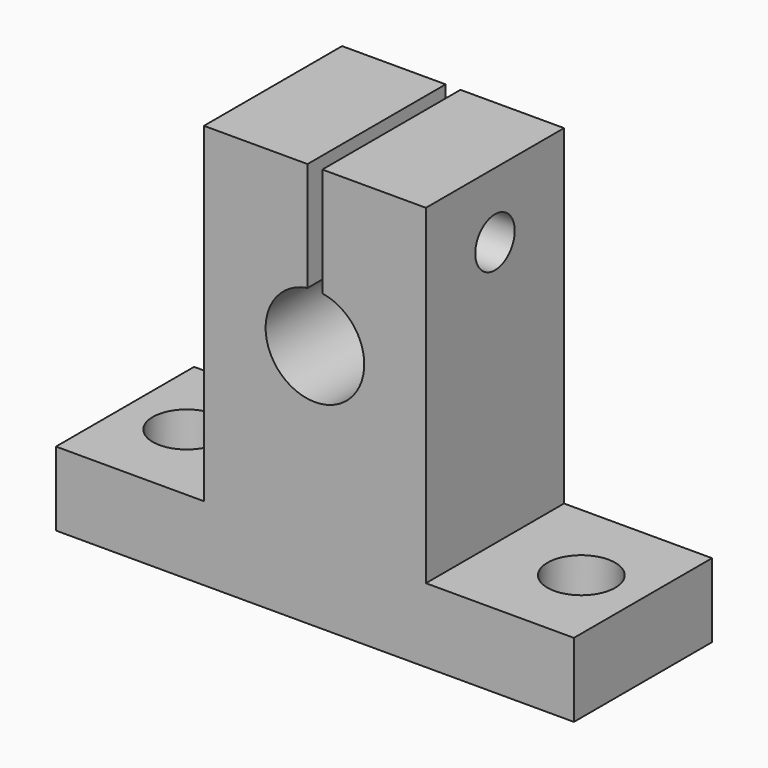
from build123d import *

# Parameters (mm, degrees)
OBJ1_R                     = 2.75
OBJ1_DEPTH                 = 8
OBJ2                     = 2.75
OBJ3                 = 8
OBJ4_PLACEMENT_ANGLE        = 90
TBOLT_SHAFT_R                    = 2
TBOLT_SHAFT_DEPTH                = 20
TBOLT_SHAFT_ROLL_ANGLE           = 90
UP_SEP_W                         = 16
UP_SEP_H                         = 1.2
UP_SEP_DEPTH                     = 13.8
SHAFT_HOLE_R                     = 4
SHAFT_HOLE_DEPTH                 = 16
SHAFT_HOLE_PITCH_ANGLE           = 90
TBOLT_HEAD_R                     = 3.85
TBOLT_HEAD_DEPTH                 = 5.4
TBOLT_HEAD_ROLL_ANGLE            = 90
SIDE_BOX_L_W                     = 14
SIDE_BOX_L_H                     = 12
SIDE_BOX_L_DEPTH                 = 26.8
SIDE_BOX_R_W                     = 14
SIDE_BOX_R_H                     = 12
SIDE_BOX_R_DEPTH                 = 26.8
TOTAL_BOX_W                      = 14
TOTAL_BOX_H                      = 42
TOTAL_BOX_DEPTH                  = 32.8
SK_SHAPE_W_HOLES_PLACEMENT_ANGLE = 90


with BuildPart() as obj1:
    # obj1 → obj1 (new body)
    with BuildSketch(Plane(origin=(7, -16, -1), x_dir=(1, 0, 0), z_dir=(0, 0, 1))):
        Circle(OBJ1_R)
    extrude(amount=OBJ1_DEPTH)


with BuildPart() as obj4:
    with BuildSketch(Plane(origin=(7, 16, -1), x_dir=(1, 0, 0), z_dir=(0, 0, 1))):
        Circle(OBJ2)
    extrude(amount=OBJ3)

    # obj4: union obj1
    add(obj1.part)


with BuildPart() as obj4_1:
    # obj4 placement: moved
    add(obj4.part.moved(Location((0, -7, 0))).rotate(Axis((0, -7, 0), (0, 0, 1)), OBJ4_PLACEMENT_ANGLE))


with BuildPart() as tbolt_shaft:
    # tbolt_shaft → tbolt_shaft (new body)
    with BuildSketch(Plane.XY):
        Circle(TBOLT_SHAFT_R)
    extrude(amount=TBOLT_SHAFT_DEPTH)


with BuildPart() as tbolt_shaft_1:
    # tbolt_shaft roll: moved
    add(tbolt_shaft.part.rotate(Axis((0, 0, 0), (1, 0, 0)), TBOLT_SHAFT_ROLL_ANGLE))


with BuildPart() as tbolt_shaft_2:
    # tbolt_shaft placement: moved
    add(tbolt_shaft_1.part.moved(Location((7, 10, 27.5))))


with BuildPart() as up_sep:
    # up_sep → up_sep (new body)
    with BuildSketch(Plane(origin=(-1, -0.6, 21), x_dir=(1, 0, 0), z_dir=(0, 0, 1))):
        with Locations((8, 0.6)):
            Rectangle(UP_SEP_W, UP_SEP_H)
    extrude(amount=UP_SEP_DEPTH)


with BuildPart() as shaft_hole:
    # shaft_hole → shaft_hole (new body)
    with BuildSketch(Plane.XY):
        Circle(SHAFT_HOLE_R)
    extrude(amount=SHAFT_HOLE_DEPTH)


with BuildPart() as shaft_hole_1:
    # shaft_hole pitch: moved
    add(shaft_hole.part.rotate(Axis((0, 0, 0), (0, 1, 0)), SHAFT_HOLE_PITCH_ANGLE))


with BuildPart() as shaft_hole_2:
    # shaft_hole placement: moved
    add(shaft_hole_1.part.moved(Location((-1, 0, 20))))


with BuildPart() as fuse_shaft_holes:
    # tbolt_head → tbolt_head (new body)
    with BuildSketch(Plane.XY):
        Circle(TBOLT_HEAD_R)
    extrude(amount=TBOLT_HEAD_DEPTH)


with BuildPart() as fuse_shaft_holes_1:
    # tbolt_head roll: moved
    add(fuse_shaft_holes.part.rotate(Axis((0, 0, 0), (1, 0, 0)), TBOLT_HEAD_ROLL_ANGLE))


with BuildPart() as fuse_shaft_holes_2:
    # tbolt_head placement: moved
    add(fuse_shaft_holes_1.part.moved(Location((7, 10, 27.5))))

    # fuse_shaft_holes: union tbolt_shaft, up_sep, shaft_hole
    add(tbolt_shaft_2.part)
    add(up_sep.part)
    add(shaft_hole_2.part)


with BuildPart() as side_box_l:
    # side_box_l → side_box_l (new body)
    with BuildSketch(Plane(origin=(0, -21, 6), x_dir=(1, 0, 0), z_dir=(0, 0, 1))):
        with Locations((7, 6)):
            Rectangle(SIDE_BOX_L_W, SIDE_BOX_L_H)
    extrude(amount=SIDE_BOX_L_DEPTH)


with BuildPart() as side_boxes:
    # side_box_r → side_box_r (new body)
    with BuildSketch(Plane(origin=(0, 9, 6), x_dir=(1, 0, 0), z_dir=(0, 0, 1))):
        with Locations((7, 6)):
            Rectangle(SIDE_BOX_R_W, SIDE_BOX_R_H)
    extrude(amount=SIDE_BOX_R_DEPTH)

    # side_boxes: union side_box_l
    add(side_box_l.part)


with BuildPart() as sky_x_y:
    # total_box → total_box (new body)
    with BuildSketch(Plane(origin=(0, -21, 0), x_dir=(1, 0, 0), z_dir=(0, 0, 1))):
        with Locations((7, 21)):
            Rectangle(TOTAL_BOX_W, TOTAL_BOX_H)
    extrude(amount=TOTAL_BOX_DEPTH)

    # sk_shape: cut side_boxes
    add(side_boxes.part, mode=Mode.SUBTRACT)

    # sk_shape_w_holes: cut fuse_shaft_holes
    add(fuse_shaft_holes_2.part, mode=Mode.SUBTRACT)


with BuildPart() as sky_x_y_1:
    # sk_shape_w_holes placement: moved
    add(sky_x_y.part.moved(Location((0, -7, 0))).rotate(Axis((0, -7, 0), (0, 0, 1)), SK_SHAPE_W_HOLES_PLACEMENT_ANGLE))

    # sky_x_y0: cut obj4
    add(obj4_1.part, mode=Mode.SUBTRACT)


with BuildPart() as sky_x_y_2:
    # sky_x_y0 placement: moved
    add(sky_x_y_1.part.moved(Location((85.25, -56.5, -20))))


with BuildPart() as sky_x_y_3:
    # Clone014 placement: moved
    add(sky_x_y_2.part.moved(Location((0, 178, 0))))


solid = sky_x_y_3.part
